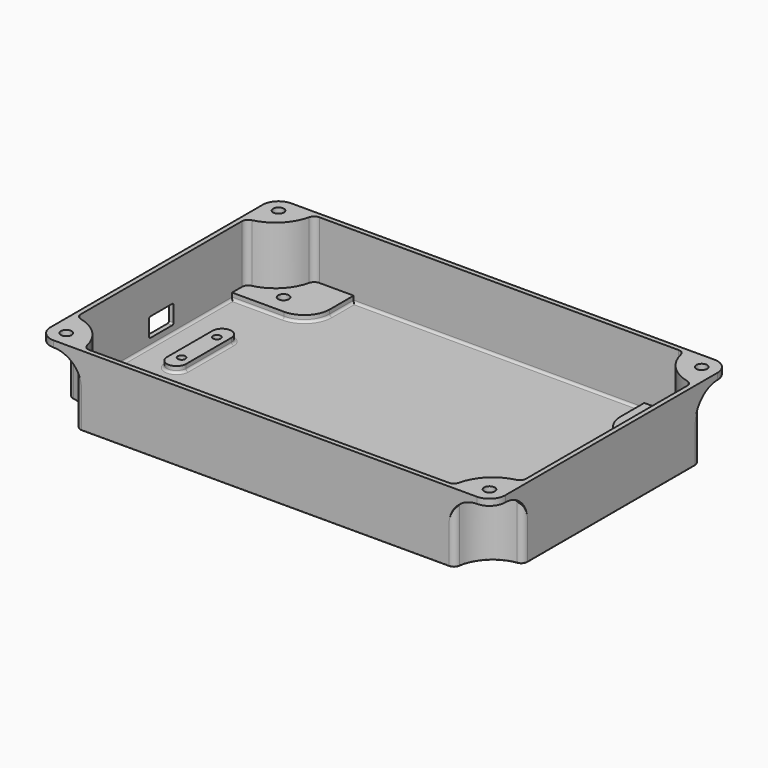
from build123d import *

# Parameters (mm, degrees)
PAD_DEPTH       = 2
PAD001_DEPTH    = 18.3
PAD002_DEPTH    = 2
PAD003_DEPTH    = 2
PAD004_DEPTH    = 2
SKETCH005_R     = 1.7
SKETCH005_R_2   = 1.2
POCKET_DEPTH    = 22.301
SKETCH006_R     = 3.5
SKETCH006_R_2   = 2.5
POCKET001_DEPTH = 2
SKETCH009_R     = 1.7
POCKET002_DEPTH = 22.301
POCKET006_DEPTH = 1.5
FILLET_R        = 0.75
FILLET001_R     = 0.3
PAD026_DEPTH    = 1.5
PAD023_DEPTH    = 1.5
PAD025_DEPTH    = 1.5
PAD024_DEPTH    = 1.5


with BuildPart() as part:
    # Sketch → Pad (new body)
    with BuildSketch(Plane.XY):
        with BuildLine():
            Line((-58.1435935394, 47), (58.1435935394, 47))
            ThreePointArc((60.1230801767, 45.2857142857), (59.4529008809, 46.511857892), (58.1435935394, 47))
            ThreePointArc((60.1230801767, 45.2857142857), (63.5147186258, 38.5147186258), (70.2857142857, 35.1230801767))
            ThreePointArc((72, 33.1435935394), (71.511857892, 34.4529008809), (70.2857142857, 35.1230801767))
            Line((72, 33.1435935394), (72, -33.1435935394))
            ThreePointArc((70.2857142857, -35.1230801767), (71.511857892, -34.4529008809), (72, -33.1435935394))
            ThreePointArc((70.2857142857, -35.1230801767), (63.5147186258, -38.5147186258), (60.1230801767, -45.2857142857))
            ThreePointArc((58.1435935394, -47), (59.4529008809, -46.511857892), (60.1230801767, -45.2857142857))
            Line((58.1435935394, -47), (-58.1435935394, -47))
            ThreePointArc((-60.1230801767, -45.2857142857), (-59.4529008809, -46.511857892), (-58.1435935394, -47))
            ThreePointArc((-60.1230801767, -45.2857142857), (-63.5147186258, -38.5147186258), (-70.2857142857, -35.1230801767))
            ThreePointArc((-72, -33.1435935394), (-71.511857892, -34.4529008809), (-70.2857142857, -35.1230801767))
            Line((-72, -33.1435935394), (-72, 33.1435935394))
            ThreePointArc((-70.2857142857, 35.1230801767), (-71.511857892, 34.4529008809), (-72, 33.1435935394))
            ThreePointArc((-70.2857142857, 35.1230801767), (-63.5147186258, 38.5147186258), (-60.1230801767, 45.2857142857))
            ThreePointArc((-58.1435935394, 47), (-59.4529008809, 46.511857892), (-60.1230801767, 45.2857142857))
        make_face()
    extrude(amount=PAD_DEPTH)

    # Sketch001 (on Face18 of Pad) → Pad001 (join)
    with BuildSketch(Plane.XY.offset(2)):
        with BuildLine():
            Line((-58.1435935394, 47), (58.1435935394, 47))
            ThreePointArc((60.1230801767, 45.2857142857), (59.4529008809, 46.511857892), (58.1435935394, 47))
            ThreePointArc((60.1230801767, 45.2857142857), (63.5147186258, 38.5147186258), (70.2857142857, 35.1230801767))
            ThreePointArc((72, 33.1435935394), (71.511857892, 34.4529008809), (70.2857142857, 35.1230801767))
            Line((72, 33.1435935394), (72, -33.1435935394))
            ThreePointArc((70.2857142857, -35.1230801767), (71.511857892, -34.4529008809), (72, -33.1435935394))
            ThreePointArc((70.2857142857, -35.1230801767), (63.5147186258, -38.5147186258), (60.1230801767, -45.2857142857))
            ThreePointArc((58.1435935394, -47), (59.4529008809, -46.511857892), (60.1230801767, -45.2857142857))
            Line((58.1435935394, -47), (-58.1435935394, -47))
            ThreePointArc((-60.1230801767, -45.2857142857), (-59.4529008809, -46.511857892), (-58.1435935394, -47))
            ThreePointArc((-60.1230801767, -45.2857142857), (-63.5147186258, -38.5147186258), (-70.2857142857, -35.1230801767))
            ThreePointArc((-72, -33.1435935394), (-71.511857892, -34.4529008809), (-70.2857142857, -35.1230801767))
            Line((-72, -33.1435935394), (-72, 33.1435935394))
            ThreePointArc((-70.2857142857, 35.1230801767), (-71.511857892, 34.4529008809), (-72, 33.1435935394))
            ThreePointArc((-70.2857142857, 35.1230801767), (-63.5147186258, 38.5147186258), (-60.1230801767, 45.2857142857))
            ThreePointArc((-58.1435935394, 47), (-59.4529008809, 46.511857892), (-60.1230801767, 45.2857142857))
        make_face()
        with BuildLine():
            ThreePointArc((-68.9516129032, 33.8486754999), (-62.454058454, 37.454058454), (-58.8486754999, 43.9516129032))
            ThreePointArc((-56.9003311295, 45.5), (-58.1446731631, 45.0657627225), (-58.8486754999, 43.9516129032))
            Line((-56.9003311295, 45.5), (56.9003311295, 45.5))
            ThreePointArc((58.8486754999, 43.9516129032), (58.1446731631, 45.0657627225), (56.9003311295, 45.5))
            ThreePointArc((58.8486754999, 43.9516129032), (62.454058454, 37.454058454), (68.9516129032, 33.8486754999))
            ThreePointArc((70.5, 31.9003311295), (70.0657627225, 33.1446731631), (68.9516129032, 33.8486754999))
            Line((70.5, 31.9003311295), (70.5, -31.9003311295))
            ThreePointArc((68.9516129032, -33.8486754999), (70.0657627225, -33.1446731631), (70.5, -31.9003311295))
            ThreePointArc((68.9516129032, -33.8486754999), (62.454058454, -37.454058454), (58.8486754999, -43.9516129032))
            ThreePointArc((56.9003311295, -45.5), (58.1446731631, -45.0657627225), (58.8486754999, -43.9516129032))
            Line((56.9003311295, -45.5), (-56.9003311295, -45.5))
            ThreePointArc((-58.8486754999, -43.9516129032), (-58.1446731631, -45.0657627225), (-56.9003311295, -45.5))
            ThreePointArc((-58.8486754999, -43.9516129032), (-62.454058454, -37.454058454), (-68.9516129032, -33.8486754999))
            ThreePointArc((-70.5, -31.9003311295), (-70.0657627225, -33.1446731631), (-68.9516129032, -33.8486754999))
            Line((-70.5, -31.9003311295), (-70.5, 31.9003311295))
            ThreePointArc((-68.9516129032, 33.8486754999), (-70.0657627225, 33.1446731631), (-70.5, 31.9003311295))
        make_face(mode=Mode.SUBTRACT)
    extrude(amount=PAD001_DEPTH)

    # Sketch002 (on Face51 of Pad001) → Pad002 (join)
    with BuildSketch(Plane.XY.offset(2)):
        with BuildLine():
            Line((-46, 45.5), (-46, 36))
            ThreePointArc((-54, 28), (-48.3431457505, 30.3431457505), (-46, 36))
            Line((-54, 28), (-70.5, 28))
            Line((-70.5, 31.9003311295), (-70.5, 28))
            ThreePointArc((-68.9516129032, 33.8486754999), (-70.0657627225, 33.1446731631), (-70.5, 31.9003311295))
            ThreePointArc((-68.9516129032, 33.8486754999), (-62.454058454, 37.454058454), (-58.8486754999, 43.9516129032))
            ThreePointArc((-56.9003311295, 45.5), (-58.1446731631, 45.0657627225), (-58.8486754999, 43.9516129032))
            Line((-56.9003311295, 45.5), (-46, 45.5))
        make_face()
        with BuildLine():
            Line((56.9003311295, 45.5), (46, 45.5))
            Line((46, 45.5), (46, 36))
            ThreePointArc((46, 36), (48.3431457505, 30.3431457505), (54, 28))
            Line((54, 28), (70.5, 28))
            Line((70.5, 31.9003311295), (70.5, 28))
            ThreePointArc((70.5, 31.9003311295), (70.0657627225, 33.1446731631), (68.9516129032, 33.8486754999))
            ThreePointArc((58.8486754999, 43.9516129032), (62.454058454, 37.454058454), (68.9516129032, 33.8486754999))
            ThreePointArc((58.8486754999, 43.9516129032), (58.1446731631, 45.0657627225), (56.9003311295, 45.5))
        make_face()
        with BuildLine():
            ThreePointArc((-58.8486754999, -43.9516129032), (-62.454058454, -37.454058454), (-68.9516129032, -33.8486754999))
            ThreePointArc((-70.5, -31.9003311295), (-70.0657627225, -33.1446731631), (-68.9516129032, -33.8486754999))
            Line((-70.5, -28), (-70.5, -31.9003311295))
            Line((-54, -28), (-70.5, -28))
            ThreePointArc((-46, -36), (-48.3431457505, -30.3431457505), (-54, -28))
            Line((-46, -45.5), (-46, -36))
            Line((-46, -45.5), (-56.9003311295, -45.5))
            ThreePointArc((-58.8486754999, -43.9516129032), (-58.1446731631, -45.0657627225), (-56.9003311295, -45.5))
        make_face()
        with BuildLine():
            Line((70.5, -28), (54, -28))
            ThreePointArc((54, -28), (48.3431457505, -30.3431457505), (46, -36))
            Line((46, -45.5), (46, -36))
            Line((56.9003311295, -45.5), (46, -45.5))
            ThreePointArc((56.9003311295, -45.5), (58.1446731631, -45.0657627225), (58.8486754999, -43.9516129032))
            ThreePointArc((68.9516129032, -33.8486754999), (62.454058454, -37.454058454), (58.8486754999, -43.9516129032))
            ThreePointArc((68.9516129032, -33.8486754999), (70.0657627225, -33.1446731631), (70.5, -31.9003311295))
            Line((70.5, -31.9003311295), (70.5, -28))
        make_face()
    extrude(amount=PAD002_DEPTH)

    # Sketch003 (on Face21 of Pad002) → Pad003 (join)
    with BuildSketch(Plane.XY.offset(20.3)):
        with BuildLine():
            Line((-67, 47), (67, 47))
            ThreePointArc((72, 42), (70.5355339059, 45.5355339059), (67, 47))
            Line((72, -42), (72, 42))
            ThreePointArc((67, -47), (70.5355339059, -45.5355339059), (72, -42))
            Line((-67, -47), (67, -47))
            ThreePointArc((-72, -42), (-70.5355339059, -45.5355339059), (-67, -47))
            Line((-72, -42), (-72, 42))
            ThreePointArc((-67, 47), (-70.5355339059, 45.5355339059), (-72, 42))
        make_face()
        with BuildLine():
            Line((56.9003311295, 45.5), (-56.9003311295, 45.5))
            ThreePointArc((-56.9003311295, 45.5), (-58.1446731631, 45.0657627225), (-58.8486754999, 43.9516129032))
            ThreePointArc((-68.9516129032, 33.8486754999), (-62.454058454, 37.454058454), (-58.8486754999, 43.9516129032))
            ThreePointArc((-68.9516129032, 33.8486754999), (-70.0657627225, 33.1446731631), (-70.5, 31.9003311295))
            Line((-70.5, -31.9003311295), (-70.5, 31.9003311295))
            ThreePointArc((-70.5, -31.9003311295), (-70.0657627225, -33.1446731631), (-68.9516129032, -33.8486754999))
            ThreePointArc((-58.8486754999, -43.9516129032), (-62.454058454, -37.454058454), (-68.9516129032, -33.8486754999))
            ThreePointArc((-58.8486754999, -43.9516129032), (-58.1446731631, -45.0657627225), (-56.9003311295, -45.5))
            Line((-56.9003311295, -45.5), (56.9003311295, -45.5))
            ThreePointArc((56.9003311295, -45.5), (58.1446731631, -45.0657627225), (58.8486754999, -43.9516129032))
            ThreePointArc((68.9516129032, -33.8486754999), (62.454058454, -37.454058454), (58.8486754999, -43.9516129032))
            ThreePointArc((68.9516129032, -33.8486754999), (70.0657627225, -33.1446731631), (70.5, -31.9003311295))
            Line((70.5, 31.9003311295), (70.5, -31.9003311295))
            ThreePointArc((70.5, 31.9003311295), (70.0657627225, 33.1446731631), (68.9516129032, 33.8486754999))
            ThreePointArc((58.8486754999, 43.9516129032), (62.454058454, 37.454058454), (68.9516129032, 33.8486754999))
            ThreePointArc((58.8486754999, 43.9516129032), (58.1446731631, 45.0657627225), (56.9003311295, 45.5))
        make_face(mode=Mode.SUBTRACT)
    extrude(amount=PAD003_DEPTH)

    # Sketch007 (on Face54 of Pad002) → Pad004 (join)
    with BuildSketch(Plane.XY.offset(2)):
        with BuildLine():
            Line((-55.5, 9), (-55.5, -9))
            ThreePointArc((-61.5, -9), (-58.5, -12), (-55.5, -9))
            Line((-61.5, -9), (-61.5, 9))
            ThreePointArc((-55.5, 9), (-58.5, 12), (-61.5, 9))
        make_face()
    extrude(amount=PAD004_DEPTH)

    # Sketch005 (on Face4 of Pad004) → Pocket (cut, through all)
    with BuildSketch(Plane(origin=(0, 0, 0), x_dir=(1, 0, 0), z_dir=(0, 0, -1))):
        with Locations((-59, 34)):
            Circle(SKETCH005_R)
        with Locations((-59, -34)):
            Circle(SKETCH005_R)
        with Locations((52, 34)):
            Circle(SKETCH005_R)
        with Locations((52, -34)):
            Circle(SKETCH005_R)
        with Locations((-58.5, 7)):
            Circle(SKETCH005_R_2)
        with Locations((-58.5, -7)):
            Circle(SKETCH005_R_2)
    extrude(amount=-POCKET_DEPTH, mode=Mode.SUBTRACT)

    # Sketch006 (on Face4 of Pocket) → Pocket001 (cut)
    with BuildSketch(Plane(origin=(0, 0, 0), x_dir=(1, 0, 0), z_dir=(0, 0, -1))):
        with Locations((-59, 34)):
            Circle(SKETCH006_R)
        with Locations((52, 34)):
            Circle(SKETCH006_R)
        with Locations((52, -34)):
            Circle(SKETCH006_R)
        with Locations((-59, -34)):
            Circle(SKETCH006_R)
        with Locations((-58.5, 7)):
            Circle(SKETCH006_R_2)
        with Locations((-58.5, -7)):
            Circle(SKETCH006_R_2)
    extrude(amount=-POCKET001_DEPTH, mode=Mode.SUBTRACT)

    # Sketch009 (on Face62 of Pocket001) → Pocket002 (cut, through all)
    with BuildSketch(Plane.XY.offset(22.3)):
        with Locations((-67, 42)):
            Circle(SKETCH009_R)
        with Locations((67, 42)):
            Circle(SKETCH009_R)
        with Locations((67, -42)):
            Circle(SKETCH009_R)
        with Locations((-67, -42)):
            Circle(SKETCH009_R)
    extrude(amount=-POCKET002_DEPTH, mode=Mode.SUBTRACT)

    # Sketch032 (on Face28 of Pocket002) → Pocket006 (cut)
    with BuildSketch(Plane(origin=(-72, 0, 0), x_dir=(0, -1, 0), z_dir=(-1, 0, 0))):
        with BuildLine():
            Line((-4.35, 10.5), (4.35, 10.5))
            ThreePointArc((4.85, 10), (4.7035533906, 10.3535533906), (4.35, 10.5))
            Line((4.85, 10), (4.85, 5))
            ThreePointArc((4.35, 4.5), (4.7035533906, 4.6464466094), (4.85, 5))
            Line((4.35, 4.5), (-4.35, 4.5))
            ThreePointArc((-4.85, 5), (-4.7035533906, 4.6464466094), (-4.35, 4.5))
            Line((-4.85, 5), (-4.85, 10))
            ThreePointArc((-4.35, 10.5), (-4.7035533906, 10.3535533906), (-4.85, 10))
        make_face()
    extrude(amount=-POCKET006_DEPTH, mode=Mode.SUBTRACT)

    # Fillet
    fillet_edges = [part.edges().sort_by_distance(p)[0] for p in [
        (-70.5, 0, 2),
        (-62.25, -28, 2),
        (-62.25, 28, 2),
        (-48.343146, -30.343146, 2),
        (-48.343146, 30.343146, 2),
        (-46, -40.75, 2),
        (-46, 40.75, 2),
        (0, -45.5, 2),
        (0, 45.5, 2),
        (46, -40.75, 2),
        (46, 40.75, 2),
        (48.343146, -30.343146, 2),
        (48.343146, 30.343146, 2),
        (62.25, -28, 2),
        (62.25, 28, 2),
        (70.5, 0, 2),
        (-55.5, 0, 2),
        (-58.5, -12, 2),
        (-61.5, 0, 2),
        (-58.5, 12, 2),
    ]]
    fillet(fillet_edges, radius=FILLET_R)

    # Fillet001
    fillet001_edges = [part.edges().sort_by_distance(p)[0] for p in [
        (-63.514719, 38.514719, 0),
        (-71.511858, 34.452901, 0),
        (-59.452901, 46.511858, 0),
        (-72, 0, 0),
        (0, 47, 0),
        (-71.511858, -34.452901, 0),
        (59.452901, 46.511858, 0),
        (-63.514719, -38.514719, 0),
        (63.514719, 38.514719, 0),
        (-59.452901, -46.511858, 0),
        (71.511858, 34.452901, 0),
        (0, -47, 0),
        (72, 0, 0),
        (59.452901, -46.511858, 0),
        (71.511858, -34.452901, 0),
        (63.514719, -38.514719, 0),
        (48.5, -34, 0),
        (-62.5, -34, 0),
        (-61, -7, 0),
        (48.5, 34, 0),
        (-61, 7, 0),
        (-62.5, 34, 0),
    ]]
    fillet(fillet001_edges, radius=FILLET001_R)

    # Sketch035 (on Face59 of Fillet001) → Pad026 (join)
    with BuildSketch(Plane.YZ.offset(72)):
        with BuildLine():
            Line((-42, 20.3), (-33.1435935394, 20.3))
            Line((-33.1435935394, 20.3), (-33.1435935394, 11.4435935394))
            ThreePointArc((-33.1435935394, 11.4435935394), (-35.7375749348, 17.7060186046), (-42, 20.3))
        make_face()
        with BuildLine():
            Line((42, 20.3), (33.1435935394, 20.3))
            Line((33.1435935394, 20.3), (33.1435935394, 11.4435935394))
            ThreePointArc((42, 20.3), (35.7375749348, 17.7060186046), (33.1435935394, 11.4435935394))
        make_face()
    extrude(amount=-PAD026_DEPTH)

    # Sketch033 (on Face4 of Pad026) → Pad023 (join)
    with BuildSketch(Plane(origin=(-72, 0, 0), x_dir=(0, -1, 0), z_dir=(-1, 0, 0))):
        with BuildLine():
            Line((-42, 20.3), (-33.1435935394, 20.3))
            Line((-33.1435935394, 20.3), (-33.1435935394, 11.4435935394))
            ThreePointArc((-33.1435935394, 11.4435935394), (-35.7375749348, 17.7060186046), (-42, 20.3))
        make_face()
        with BuildLine():
            Line((42, 20.3), (33.1435935394, 20.3))
            Line((33.1435935394, 20.3), (33.1435935394, 11.4435935394))
            ThreePointArc((42, 20.3), (35.7375749348, 17.7060186046), (33.1435935394, 11.4435935394))
        make_face()
    extrude(amount=-PAD023_DEPTH)

    # Sketch036 (on Face106 of Pad023) → Pad025 (join)
    with BuildSketch(Plane.XZ.offset(47)):
        with BuildLine():
            Line((-67, 20.3), (-58.1435935394, 20.3))
            Line((-58.1435935394, 20.3), (-58.1435935394, 11.4435935394))
            ThreePointArc((-58.1435935394, 11.4435935394), (-60.7375749348, 17.7060186046), (-67, 20.3))
        make_face()
        with BuildLine():
            Line((67, 20.3), (58.1435935394, 20.3))
            Line((58.1435935394, 20.3), (58.1435935394, 11.4435935394))
            ThreePointArc((67, 20.3), (60.7375749348, 17.7060186046), (58.1435935394, 11.4435935394))
        make_face()
    extrude(amount=-PAD025_DEPTH)

    # Sketch034 (on Face110 of Pad025) → Pad024 (join)
    with BuildSketch(Plane(origin=(0, 47, 0), x_dir=(-1, 0, 0), z_dir=(0, 1, 0))):
        with BuildLine():
            Line((-67, 20.3), (-58.1435935394, 20.3))
            Line((-58.1435935394, 20.3), (-58.1435935394, 11.4435935394))
            ThreePointArc((-58.1435935394, 11.4435935394), (-60.7375749348, 17.7060186046), (-67, 20.3))
        make_face()
        with BuildLine():
            Line((67, 20.3), (58.1435935394, 20.3))
            Line((58.1435935394, 20.3), (58.1435935394, 11.4435935394))
            ThreePointArc((67, 20.3), (60.7375749348, 17.7060186046), (58.1435935394, 11.4435935394))
        make_face()
    extrude(amount=-PAD024_DEPTH)


solid = part.part
